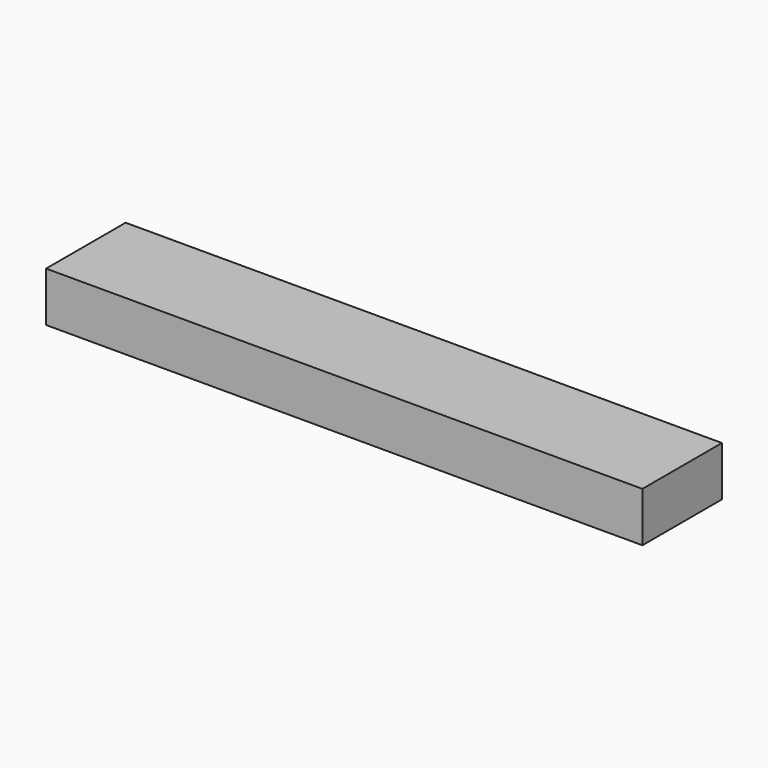
from build123d import *

# Parameters (mm, degrees)
BEAM_W     = 120
BEAM_H     = 20
BEAM_DEPTH = 10


with BuildPart() as part:
    # Beam → Beam (new body)
    with BuildSketch(Plane.XY):
        with Locations((60, 10)):
            Rectangle(BEAM_W, BEAM_H)
    extrude(amount=BEAM_DEPTH)


solid = part.part
